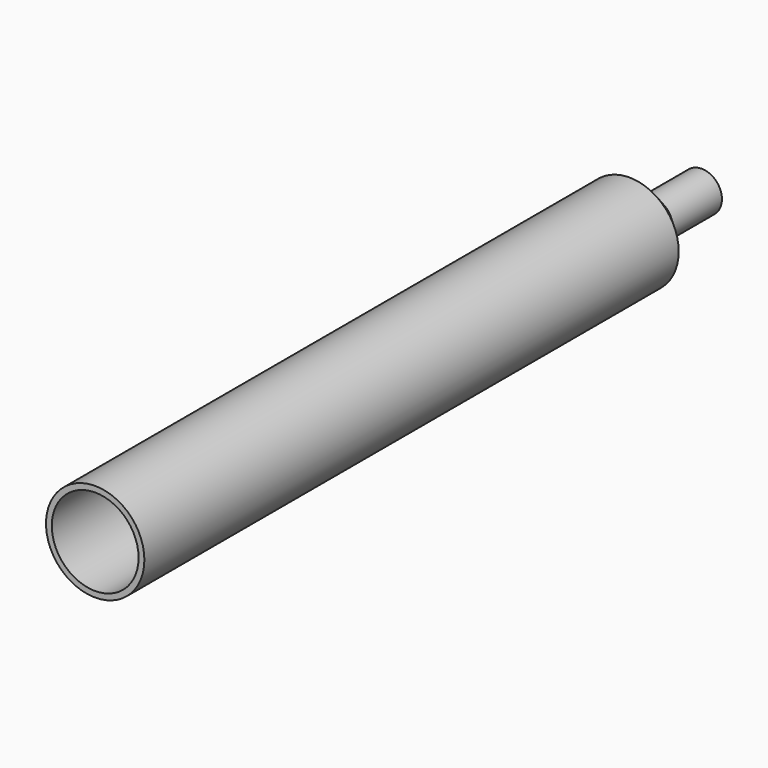
from build123d import *

# Parameters (mm, degrees)
F0_R     = 19.05
F1_DEPTH = 304.8
F3_SIZE  = 12.7
F4_DEPTH = 25.4
F5_T     = 2.54
F6_W     = 31.75
F6_H     = 19.05
F7_DEPTH = 5.08
F8_R     = 9.7478523701
F9_DEPTH = 25.4


with BuildPart() as f1:
    # F0 (on Front) → F1 (new body)
    with BuildSketch(Plane.XZ):
        Circle(F0_R)
    extrude(amount=F1_DEPTH)

    # F3
    f3_edges = [f1.edges().sort_by_distance(p)[0] for p in [
        (-19.05, 0, 0),
    ]]
    chamfer(f3_edges, length=F3_SIZE)

    # F4 (add): a face of the model
    f4_faces = [f1.faces().sort_by_distance(p)[0] for p in [
        (0, 0, 0),
    ]]
    extrude(f4_faces, amount=F4_DEPTH)

    # F5
    f5_openings = [f1.faces().sort_by_distance(p)[0] for p in [
        (0, -304.8, 0),
    ]]
    offset(amount=F5_T, openings=f5_openings, kind=Kind.INTERSECTION)


with BuildPart() as f7:
    # F6 (on face) → F7 (new body)
    with BuildSketch(Plane.XZ.offset(304.8)):
        Rectangle(F6_W, F6_H)
    extrude(amount=F7_DEPTH)


with BuildPart() as f9:
    # F8 (on face) → F9 (new body)
    with BuildSketch(Plane.XZ.offset(309.88)):
        Circle(F8_R)
    extrude(amount=-F9_DEPTH)


solid = f1.part
